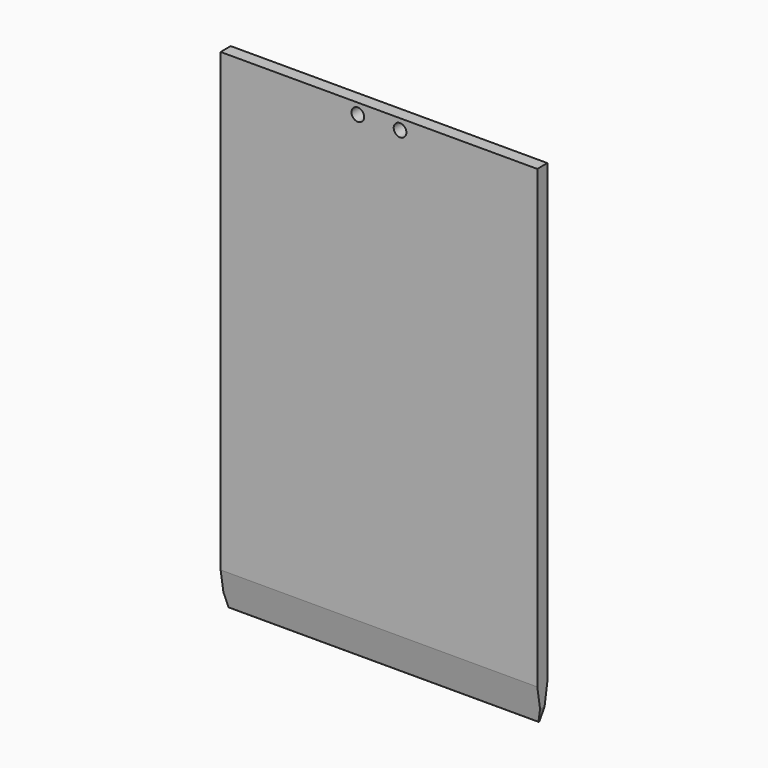
from build123d import *

# Parameters (mm, degrees)
F1_DEPTH = 225
F2_R     = 9
F3_DEPTH = 25


with BuildPart() as f1:
    # F0 (on Right) → F1 (new body, symmetric)
    with BuildSketch(Plane.YZ):
        with BuildLine():
            Line((9, -299.5), (9, 348.5))
            Line((9, 348.5), (-9, 348.5))
            Line((-9, 348.5), (-9, -299.5))
            Line((-9, -299.5), (-0.98644, -347.664124))
            ThreePointArc((-0.98644, -347.664124), (-0.082342, -346.503396), (1, -347.5))
            ThreePointArc((1, -347.5), (0.996604, -347.582342), (0.98644, -347.664124))
            Line((0.98644, -347.664124), (9, -299.5))
        make_face()
        with BuildLine():
            ThreePointArc((0, -348.5), (0.646481, -348.26293), (0.98644, -347.664124))
            ThreePointArc((0.98644, -347.664124), (0.996604, -347.582342), (1, -347.5))
            ThreePointArc((1, -347.5), (-0.082342, -346.503396), (-0.98644, -347.664124))
            ThreePointArc((-0.98644, -347.664124), (-0.646481, -348.26293), (0, -348.5))
        make_face()
    extrude(amount=F1_DEPTH, both=True)

    # F2 (on face) → F3 (cut)
    with BuildSketch(Plane(origin=(0, 9, 0), x_dir=(-1, 0, 0), z_dir=(0, 1, 0))):
        with Locations((30, 333.5)):
            Circle(F2_R)
        with BuildLine():
            ThreePointArc((-39, 333.5), (-30, 324.5), (-21, 333.5))
            ThreePointArc((-21, 333.5), (-30, 342.5), (-39, 333.5))
        make_face()
        Polygon((-220.070133, -348.5), (-225, -329.500129), (-225.070133, -348.5), align=None)
        Polygon((225.070133, -348.5), (225, -329.500129), (220.070133, -348.5), align=None)
    extrude(amount=-F3_DEPTH, mode=Mode.SUBTRACT)


solid = f1.part
